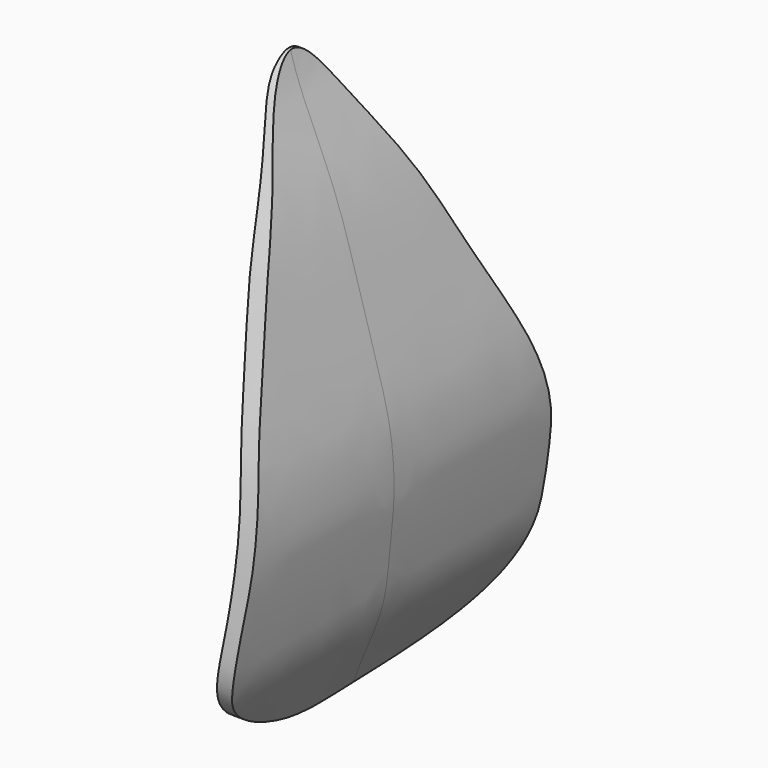
from build123d import *

# Parameters (mm, degrees)
F1_DEPTH = 2
F3_DEPTH = 4


with BuildPart() as f1:
    # F0 (on Right) → F1 (new body)
    with BuildSketch(Plane.YZ):
        with BuildLine():
            add(Edge.make_bspline(
                [(0, 5.2273017354), (0.2605217198, 5.2618768094), (0.7979164242, 4.3946235172), (1.5630022222, 3.1587918857), (2.0478986327, 2.0157404903), (3.1201245707, 0.0208012346), (2.9845664541, -1.3108166547), (2.8559655318, -2.879619213), (-0.1059810206, -2.9566960764), (-1.2723743348, -3.060471566), (-3.0045549832, -2.1928133174), (-2.8497184591, -0.9962939676), (-2.5263642826, 0.9332202565), (-1.9230773205, 2.0847032745), (-1.4908063484, 3.1095304909), (-0.9355515213, 3.9841365152), (-0.3069168824, 5.1865693392), (0, 5.2273017354)],
                knots=[0, 0, 0, 0, 0.0565961173, 0.1251003276, 0.1878899782, 0.2695197826, 0.3340520268, 0.3952085584, 0.4841154102, 0.5486650277, 0.6187595845, 0.6758454173, 0.753323166, 0.8170346106, 0.8733967493, 0.9333249301, 1, 1, 1, 1], degree=3))
        make_face()
    extrude(amount=-F1_DEPTH)

    # F2 (on Front) → F3 (cut, symmetric)
    with BuildSketch(Plane.XZ):
        with BuildLine():
            add(Edge.make_bspline(
                [(-1.0230814805, -3.1996171456), (-0.9413167701, -2.8726190409), (-0.5738079303, -2.0983360085), (-0.4340658765, -1.5488643366), (-0.3773683279, -0.7938732882), (-0.3130575396, -0.3077570041), (-0.3424623356, 0.5421463304), (-0.5680065433, 1.3690415324), (-0.8883270617, 2.4340846873), (-1.2285532511, 3.6405876418), (-1.7935398084, 4.7479344613), (-2.0326414103, 5.6379288584), (-1.7422841128, 5.7054321823), (3.471426453, 6.8720615731), (1.9414557685, -4.6442154928), (-1.0631997618, -3.8871172033), (-1.0791647594, -3.423908601), (-1.0230814805, -3.1996171456)],
                knots=[0, 0, 0, 0, 0.0645686182, 0.1113061882, 0.1616595947, 0.2042385312, 0.2581339827, 0.3139193509, 0.3766213587, 0.4438220472, 0.5128095787, 0.565006733, 0.5918735007, 0.7003852174, 0.8770226996, 0.9557117025, 1, 1, 1, 1], degree=3))
        make_face()
        with BuildLine():
            add(Edge.make_bspline(
                [(-2.0122735574, 5.3416179862), (-1.9406070063, 5.2968088268), (-2.0057225762, 5.0328241601), (-1.706983434, 4.3955856206), (-1.4145222578, 3.3417800469), (-1.1659049476, 2.4162665158), (-0.8005523205, 1.2655775028), (-0.5731816151, 0.3356741737), (-0.5799177619, -0.8754560906), (-0.7875946878, -2.2483614341), (-1.1672122223, -2.8092334313), (-2.0043562785, -4.970811516), (-5.5115302807, 4.2312148096), (-3.6360440408, 5.0256810721), (-2.1807819243, 5.4469770157), (-2.0122735574, 5.3416179862)],
                knots=[0, 0, 0, 0, 0.0346755956, 0.0909714634, 0.1616162872, 0.2285746715, 0.3017428986, 0.3674873792, 0.4420710522, 0.5195929859, 0.5796744445, 0.6427826788, 0.8309670649, 0.9184678501, 1, 1, 1, 1], degree=3))
        make_face()
    extrude(amount=F3_DEPTH, both=True, mode=Mode.SUBTRACT)


with BuildPart() as f4_1:
    # F4: copy of F1
    add(f1.part)


solid = Compound([f1.part, f4_1.part])
